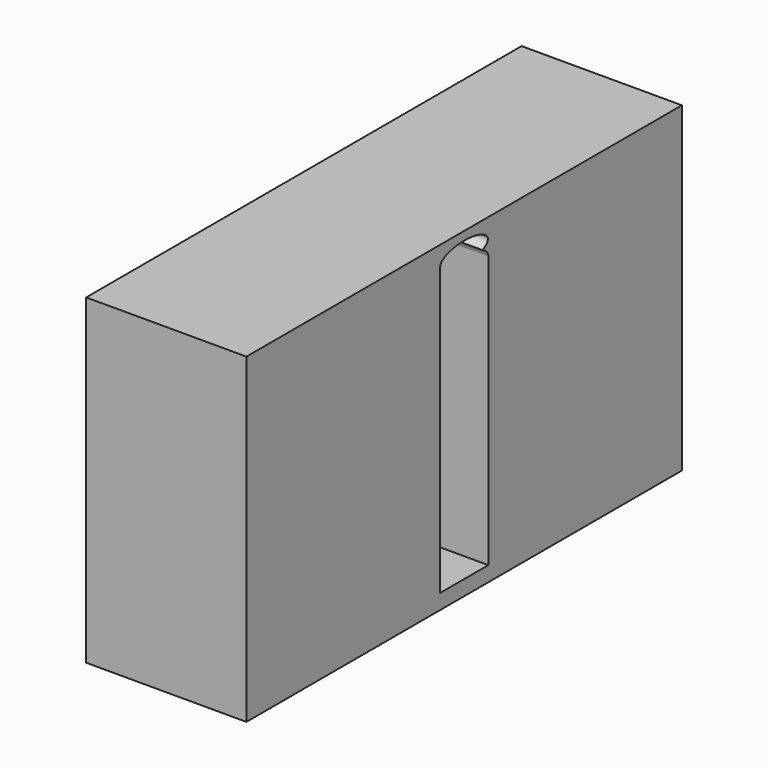
from build123d import *

# Parameters (mm, degrees)
F0_W     = 1016
F0_H     = 1064.964177138
F0_H_2   = 63.49995557
F0_H_3   = 80.6769633293
F0_H_4   = 78.035822862
F1_DEPTH = 673.1


with BuildPart() as f1:
    # F0 (on Right) → F1 (new body)
    with BuildSketch(Plane.YZ):
        with BuildLine():
            add(Edge.make_bspline(
                [(124.8707547784, 635), (124.8707547784, 679.9489962108), (0, 679.9489962108), (-124.8707547784, 679.9489962108), (-124.8707547784, 635)],
                knots=[0, 0, 0, 1.5707963268, 1.5707963268, 3.1415926536, 3.1415926536, 3.1415926536], degree=2, weights=[1, 0.7071067812, 1, 0.7071067812, 1]))
            Line((124.8707547784, 635), (1143, 635))
            Line((1143, 635), (1143, 715.6769633293))
            Line((1143, 715.6769633293), (-127, 715.6769633293))
            Line((-127, 715.6769633293), (-127, 635))
            Line((-127, 635), (-124.8707547784, 635))
        make_face()
        with BuildLine():
            Line((1143, 635), (124.8707547784, 635))
            add(Edge.make_bspline(
                [(95.6071050479, 606.0861450464), (124.8707547784, 618.6242292335), (124.8707547784, 635)],
                knots=[5.5844378412, 5.5844378412, 5.5844378412, 6.2831853072, 6.2831853072, 6.2831853072], degree=2, weights=[1, 0.9395872742, 1]))
            add(Edge.make_bspline(
                [(127, 571.50004443), (127, 591.231826025), (95.6071050479, 606.0861450464)],
                knots=[3.1415926536, 3.1415926536, 3.1415926536, 3.8600654741, 3.8600654741, 3.8600654741], degree=2, weights=[1, 0.9361655438, 1]))
            Line((127, 571.50004443), (1143, 571.50004443))
            Line((1143, 571.50004443), (1143, 635))
        make_face()
        with Locations((635, 39.017955861)):
            Rectangle(F0_W, F0_H)
        with Locations((-635, 603.250022215)):
            Rectangle(F0_W, F0_H_2)
        with Locations((-635, 675.3384816647)):
            Rectangle(F0_W, F0_H_3)
        with Locations((635, -532.482044139)):
            Rectangle(F0_W, F0_H_4)
        with Locations((-635, 39.017955861)):
            Rectangle(F0_W, F0_H)
        Polygon((1143, -635), (1143, -571.49995557), (127, -571.49995557), (-127, -571.49995557), (-1143, -571.49995557), (-1143, -581.1184632736), (-1089.1184632736, -635), align=None)
        with Locations((-635, -532.482044139)):
            Rectangle(F0_W, F0_H_4)
        Polygon((-1143, -635), (-1089.1184632736, -635), (-1143, -581.1184632736), align=None)
    extrude(amount=F1_DEPTH)


solid = f1.part
